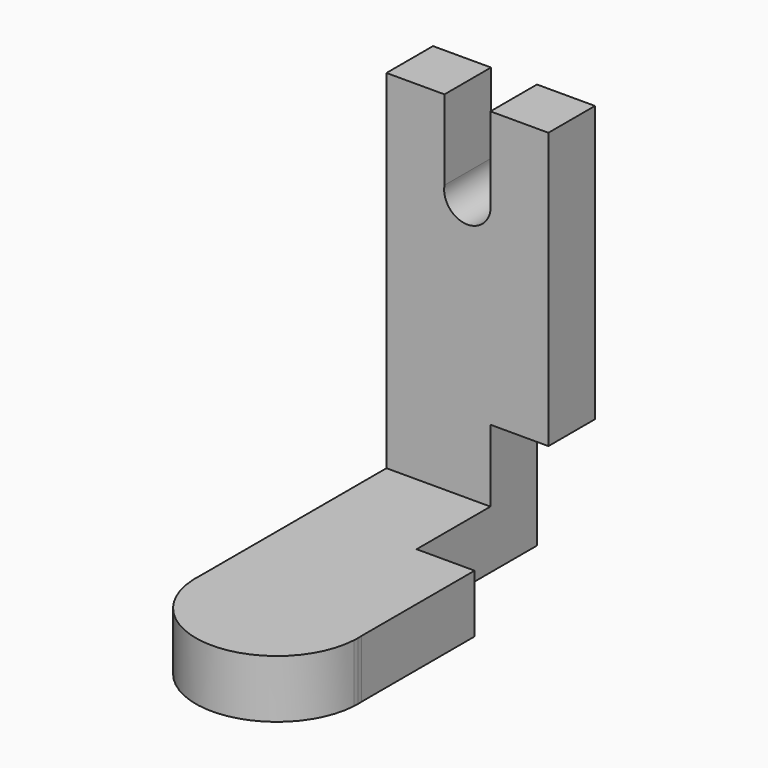
from build123d import *

# Parameters (mm, degrees)
F1_DEPTH = 12.7
F2_W     = 35.4655683041
F2_H     = 12.740496546
F3_DEPTH = 76.2
F5_DEPTH = 25.4
F7_DEPTH = 12.7


with BuildPart() as f1:
    # F0 (on Top) → F1 (new body)
    with BuildSketch(Plane.XY):
        with BuildLine():
            Line((-17.732784152, -30.9358154462), (-17.732784152, -32.9542048275))
            Line((-17.732784152, -32.9542048275), (17.732784152, -32.9542048275))
            Line((17.732784152, -32.9542048275), (17.732784152, -30.9358154462))
            ThreePointArc((17.732784152, -30.9358154462), (0, -14.1835319409), (-17.732784152, -30.9358154462))
        make_face()
        with BuildLine():
            ThreePointArc((-17.732784152, -30.9358154462), (-17.761478196, -31.9450101369), (-17.732784152, -32.9542048275))
            Line((-17.732784152, -32.9542048275), (-17.732784152, -30.9358154462))
        make_face()
        with BuildLine():
            Line((17.732784152, -32.9542048275), (-17.732784152, -32.9542048275))
            ThreePointArc((-17.732784152, -32.9542048275), (0, -49.7064883328), (17.732784152, -32.9542048275))
        make_face()
        with BuildLine():
            Line((17.732784152, -30.9358154462), (17.732784152, -32.9542048275))
            ThreePointArc((17.732784152, -32.9542048275), (17.7543032358, -32.4498114027), (17.761478196, -31.9450101369))
            ThreePointArc((17.761478196, -31.9450101369), (17.7543032358, -31.440208871), (17.732784152, -30.9358154462))
        make_face()
        with BuildLine():
            Line((-17.732784152, 32.9542048275), (-17.732784152, -30.9358154462))
            ThreePointArc((-17.732784152, -30.9358154462), (0, -14.1835319409), (17.732784152, -30.9358154462))
            Line((17.732784152, -30.9358154462), (17.732784152, 32.9542048275))
            Line((17.732784152, 32.9542048275), (-17.732784152, 32.9542048275))
        make_face()
    extrude(amount=F1_DEPTH)

    # F2 (on face) → F3 (join)
    with BuildSketch(Plane.XY.offset(12.7)):
        with Locations((0, 26.5839565545)):
            Rectangle(F2_W, F2_H)
    extrude(amount=F3_DEPTH)

    # F4 (on face) → F5 (cut)
    with BuildSketch(Plane.XZ.offset(-20.2137082815)):
        with BuildLine():
            Line((5.032784152, 88.9), (-5.032784152, 88.9))
            Line((-5.032784152, 88.9), (-5.032784152, 71.3885948062))
            ThreePointArc((-5.032784152, 71.3885948062), (0, 75.6482347117), (5.032784152, 71.3885948062))
            Line((5.032784152, 71.3885948062), (5.032784152, 88.9))
        make_face()
        with BuildLine():
            ThreePointArc((5.032784152, 71.3885948062), (0, 75.6482347117), (-5.032784152, 71.3885948062))
            Line((-5.032784152, 71.3885948062), (5.032784152, 71.3885948062))
        make_face()
        with BuildLine():
            Line((5.032784152, 71.3885948062), (-5.032784152, 71.3885948062))
            ThreePointArc((-5.032784152, 71.3885948062), (-0.4231113675, 65.4599085761), (5.1029487715, 70.5452859402))
            ThreePointArc((5.1029487715, 70.5452859402), (5.0853773641, 70.9683973077), (5.032784152, 71.3885948062))
        make_face()
    extrude(amount=-F5_DEPTH, mode=Mode.SUBTRACT)

    # F6 (on face) → F7 (cut)
    with BuildSketch(Plane.YZ.offset(17.732784152)):
        Polygon((0, 0), (32.9542048275, 0), (32.9542048275, 28.4884087741), (20.2137082815, 28.4884087741), (20.2137082815, 12.7), (0, 12.7), align=None)
    extrude(amount=-F7_DEPTH, mode=Mode.SUBTRACT)


solid = f1.part
